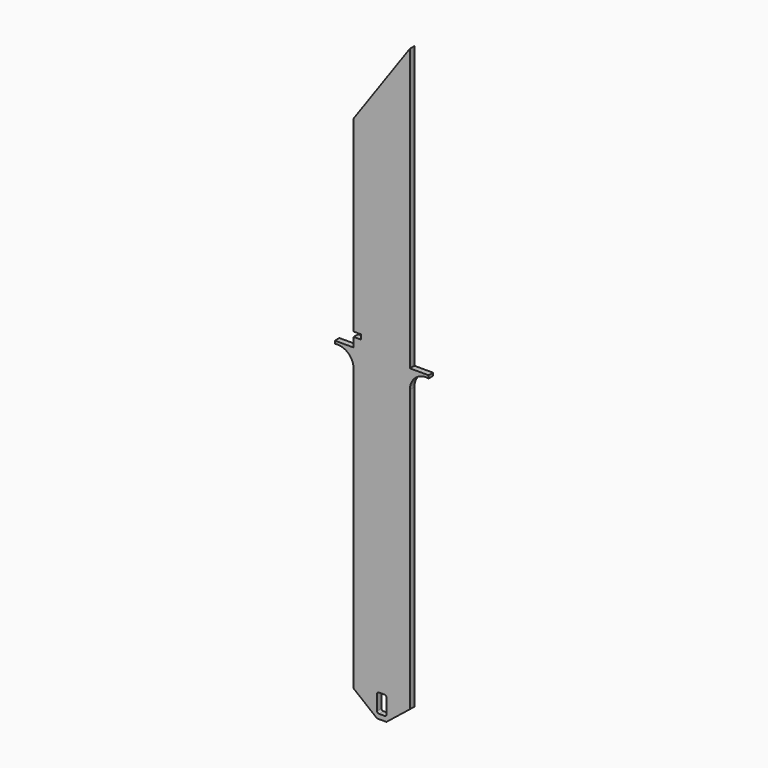
from build123d import *

# Parameters (mm, degrees)
F1_DEPTH = 1.5


with BuildPart() as f1:
    # F0 (on Front) → F1 (new body, symmetric)
    with BuildSketch(Plane.XZ):
        with BuildLine():
            Line((0, 87.008731), (0, 237.008731))
            Line((0, 237.008731), (-30, 194.508731))
            Line((-30, 194.508731), (-30, 94.508731))
            Line((-30, 94.508731), (-26, 94.508731))
            Line((-26, 94.508731), (-26, 92.008731))
            Line((-26, 92.008731), (-30, 92.008731))
            Line((-30, 92.008731), (-30, 87.008731))
            Line((-30, 87.008731), (-40, 87.008731))
            Line((-40, 87.008731), (-40, 85.508731))
            ThreePointArc((-40, 85.508731), (-33.034628, 83.570933), (-30, 77.008731))
            Line((-30, 77.008731), (-30, -72.991269))
            Line((-30, -72.991269), (-17.5, -82.991269))
            Line((-17.5, -82.991269), (-12.5, -82.991269))
            Line((-12.5, -82.991269), (0, -72.991269))
            Line((0, -72.991269), (0, 77.008731))
            ThreePointArc((0, 77.008731), (3.036062, 83.565217), (9.999984, 85.491087))
            Line((9.999984, 85.491087), (9.999984, 86.991087))
            Line((9.999984, 86.991087), (0, 87.008731))
        make_face()
        with BuildLine():
            ThreePointArc((-12.5, -79.491269), (-12.792893, -80.198376), (-13.5, -80.491269))
            Line((-13.5, -80.491269), (-16.5, -80.491269))
            ThreePointArc((-16.5, -80.491269), (-17.207107, -80.198376), (-17.5, -79.491269))
            Line((-17.5, -79.491269), (-17.5, -71.491269))
            ThreePointArc((-17.5, -71.491269), (-17.207107, -70.784163), (-16.5, -70.491269))
            Line((-16.5, -70.491269), (-13.5, -70.491269))
            ThreePointArc((-13.5, -70.491269), (-12.792893, -70.784163), (-12.5, -71.491269))
            Line((-12.5, -71.491269), (-12.5, -79.491269))
        make_face(mode=Mode.SUBTRACT)
    extrude(amount=F1_DEPTH, both=True)


solid = f1.part
